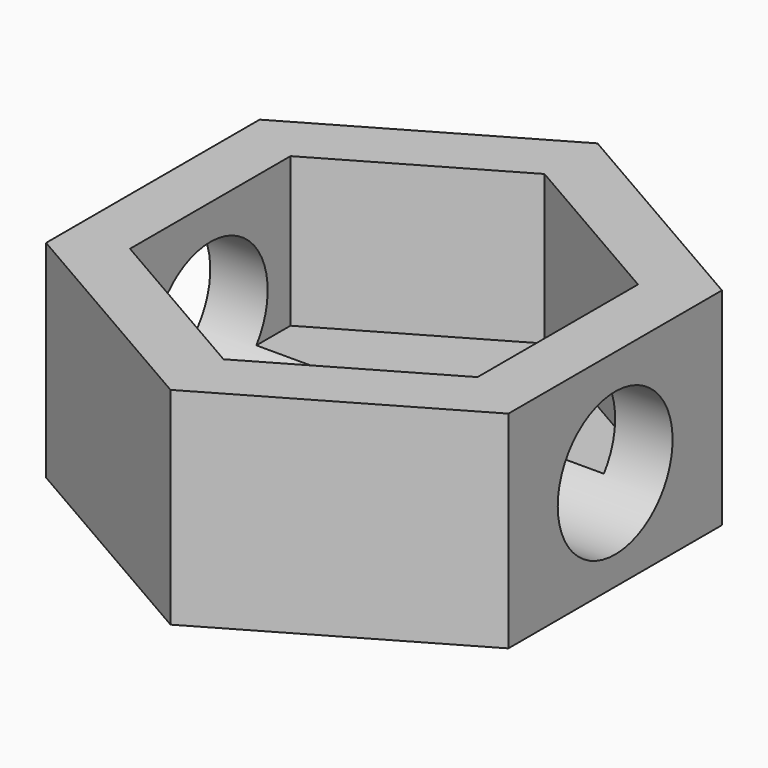
from build123d import *

# Parameters (mm, degrees)
F2_DEPTH = 27.432
F3_T     = -7.62
F4_D     = 19.05


with BuildPart() as f2:
    # F1 (on Top) → F2 (new body)
    with BuildSketch(Plane.XY):
        Polygon((0, -17.71341), (0, 17.71341), (-30.680526, 35.42682), (-61.361052, 17.71341), (-61.361052, -17.71341), (-30.680526, -35.42682), align=None)
    extrude(amount=-F2_DEPTH)

    # F3
    f3_openings = [f2.faces().sort_by_distance(p)[0] for p in [
        (-30.680526, 0, 0),
    ]]
    offset(amount=F3_T, openings=f3_openings)

    # F4 (through all)
    with Locations(Plane.YZ):
        with Locations((0, -14.139283)):
            Hole(F4_D / 2)


solid = f2.part
